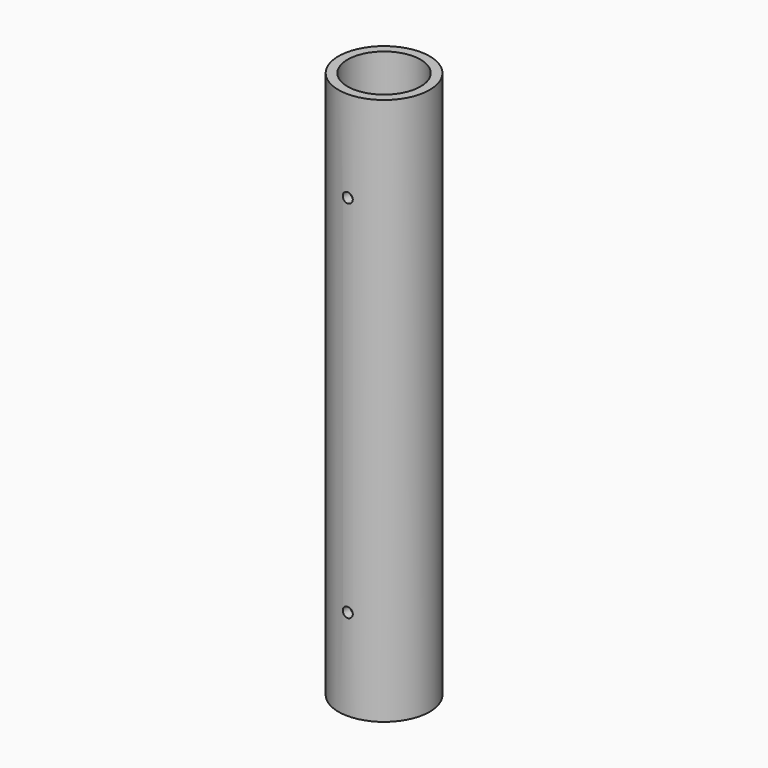
from build123d import *

# Parameters (mm, degrees)
F0_R     = 25
F1_DEPTH = 150
F2_T     = -5
F5_D     = 5.5


with BuildPart() as f1:
    # F0 (on Top) → F1 (new body, symmetric)
    with BuildSketch(Plane.XY):
        Circle(F0_R)
    extrude(amount=F1_DEPTH, both=True)

    # F2
    f2_openings = [f1.faces().sort_by_distance(p)[0] for p in [
        (0, 0, 150),
        (0, 0, -150),
    ]]
    offset(amount=F2_T, openings=f2_openings)

    # F5 (through all)
    with Locations(Plane(origin=(0, 50, 0), x_dir=(1, 0, 0), z_dir=(0, 1, 0))):
        with Locations((0, 100), (0, -100)):
            Hole(F5_D / 2)


solid = f1.part
